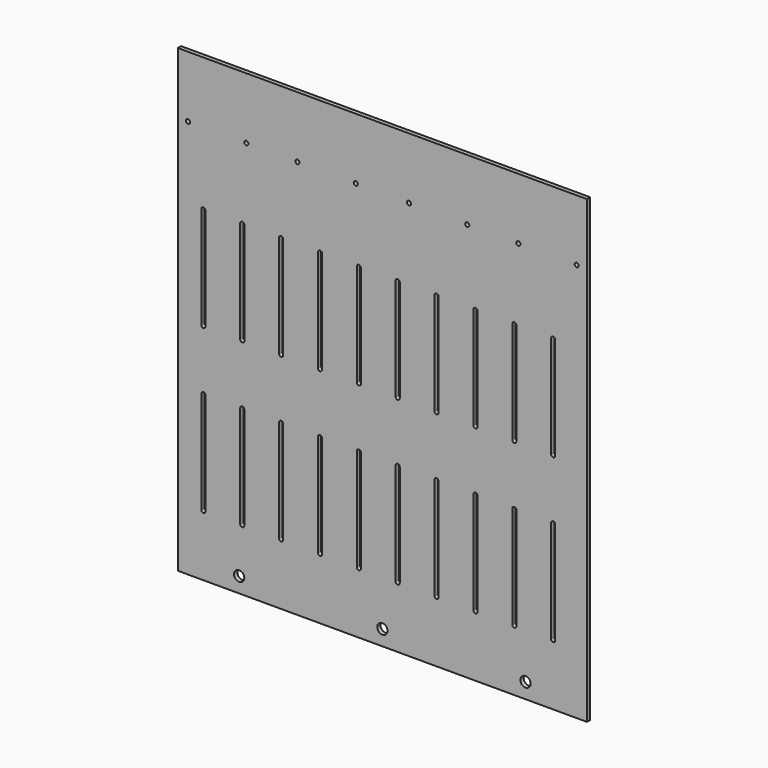
from build123d import *

# Parameters (mm, degrees)
F0_W     = 400
F0_H     = 450
F0_R     = 2
F1_DEPTH = 4
F2_R     = 5
F3_DEPTH = 25
F5_DEPTH = 25


with BuildPart() as f1:
    # F0 (on Front) → F1 (new body)
    with BuildSketch(Plane.XZ):
        Rectangle(F0_W, F0_H)
        with Locations((-190, 165)):
            Circle(F0_R, mode=Mode.SUBTRACT)
        with Locations((-133, 165)):
            Circle(F0_R, mode=Mode.SUBTRACT)
        with Locations((-83, 165)):
            Circle(F0_R, mode=Mode.SUBTRACT)
        with Locations((-26, 165)):
            Circle(F0_R, mode=Mode.SUBTRACT)
        with Locations((26, 165)):
            Circle(F0_R, mode=Mode.SUBTRACT)
        with Locations((83, 165)):
            Circle(F0_R, mode=Mode.SUBTRACT)
        with Locations((133, 165)):
            Circle(F0_R, mode=Mode.SUBTRACT)
        with Locations((190, 165)):
            Circle(F0_R, mode=Mode.SUBTRACT)
    extrude(amount=F1_DEPTH)

    # F2 (on face) → F3 (cut)
    with BuildSketch(Plane(origin=(0, 0, 0), x_dir=(-1, 0, 0), z_dir=(0, 1, 0))):
        with Locations((0, -210)):
            Circle(F2_R)
        with Locations((140, -210)):
            Circle(F2_R)
        with Locations((-140, -210)):
            Circle(F2_R)
    extrude(amount=-F3_DEPTH, mode=Mode.SUBTRACT)

    # F4 (on face) → F5 (cut)
    with BuildSketch(Plane(origin=(0, 0, 0), x_dir=(-1, 0, 0), z_dir=(0, 1, 0))):
        with BuildLine():
            ThreePointArc((173, -165), (175, -167), (177, -165))
            Line((177, -165), (177, -65))
            ThreePointArc((177, -65), (175, -63), (173, -65))
            Line((173, -65), (173, -165))
        make_face()
        with BuildLine():
            Line((173, 94), (173, -6))
            ThreePointArc((173, -6), (175, -8), (177, -6))
            Line((177, -6), (177, 94))
            ThreePointArc((177, 94), (175, 96), (173, 94))
        make_face()
        with BuildLine():
            Line((135, -65), (135, -165))
            ThreePointArc((135, -165), (137, -167), (139, -165))
            Line((139, -165), (139, -65))
            ThreePointArc((139, -65), (137, -63), (135, -65))
        make_face()
        with BuildLine():
            Line((135, 94), (135, -6))
            ThreePointArc((135, -6), (137, -8), (139, -6))
            Line((139, -6), (139, 94))
            ThreePointArc((139, 94), (137, 96), (135, 94))
        make_face()
        with BuildLine():
            Line((97, -65), (97, -165))
            ThreePointArc((97, -165), (99, -167), (101, -165))
            Line((101, -165), (101, -65))
            ThreePointArc((101, -65), (99, -63), (97, -65))
        make_face()
        with BuildLine():
            Line((97, 94), (97, -6))
            ThreePointArc((97, -6), (99, -8), (101, -6))
            Line((101, -6), (101, 94))
            ThreePointArc((101, 94), (99, 96), (97, 94))
        make_face()
        with BuildLine():
            Line((59, -65), (59, -165))
            ThreePointArc((59, -165), (61, -167), (63, -165))
            Line((63, -165), (63, -65))
            ThreePointArc((63, -65), (61, -63), (59, -65))
        make_face()
        with BuildLine():
            Line((59, 94), (59, -6))
            ThreePointArc((59, -6), (61, -8), (63, -6))
            Line((63, -6), (63, 94))
            ThreePointArc((63, 94), (61, 96), (59, 94))
        make_face()
        with BuildLine():
            Line((21, -65), (21, -165))
            ThreePointArc((21, -165), (23, -167), (25, -165))
            Line((25, -165), (25, -65))
            ThreePointArc((25, -65), (23, -63), (21, -65))
        make_face()
        with BuildLine():
            Line((21, 94), (21, -6))
            ThreePointArc((21, -6), (23, -8), (25, -6))
            Line((25, -6), (25, 94))
            ThreePointArc((25, 94), (23, 96), (21, 94))
        make_face()
        with BuildLine():
            Line((-17, -65), (-17, -165))
            ThreePointArc((-17, -165), (-15, -167), (-13, -165))
            Line((-13, -165), (-13, -65))
            ThreePointArc((-13, -65), (-15, -63), (-17, -65))
        make_face()
        with BuildLine():
            Line((-17, 94), (-17, -6))
            ThreePointArc((-17, -6), (-15, -8), (-13, -6))
            Line((-13, -6), (-13, 94))
            ThreePointArc((-13, 94), (-15, 96), (-17, 94))
        make_face()
        with BuildLine():
            Line((-55, -65), (-55, -165))
            ThreePointArc((-55, -165), (-53, -167), (-51, -165))
            Line((-51, -165), (-51, -65))
            ThreePointArc((-51, -65), (-53, -63), (-55, -65))
        make_face()
        with BuildLine():
            Line((-55, 94), (-55, -6))
            ThreePointArc((-55, -6), (-53, -8), (-51, -6))
            Line((-51, -6), (-51, 94))
            ThreePointArc((-51, 94), (-53, 96), (-55, 94))
        make_face()
        with BuildLine():
            Line((-93, -65), (-93, -165))
            ThreePointArc((-93, -165), (-91, -167), (-89, -165))
            Line((-89, -165), (-89, -65))
            ThreePointArc((-89, -65), (-91, -63), (-93, -65))
        make_face()
        with BuildLine():
            Line((-93, 94), (-93, -6))
            ThreePointArc((-93, -6), (-91, -8), (-89, -6))
            Line((-89, -6), (-89, 94))
            ThreePointArc((-89, 94), (-91, 96), (-93, 94))
        make_face()
        with BuildLine():
            Line((-131, -65), (-131, -165))
            ThreePointArc((-131, -165), (-129, -167), (-127, -165))
            Line((-127, -165), (-127, -65))
            ThreePointArc((-127, -65), (-129, -63), (-131, -65))
        make_face()
        with BuildLine():
            Line((-131, 94), (-131, -6))
            ThreePointArc((-131, -6), (-129, -8), (-127, -6))
            Line((-127, -6), (-127, 94))
            ThreePointArc((-127, 94), (-129, 96), (-131, 94))
        make_face()
        with BuildLine():
            Line((-169, -65), (-169, -165))
            ThreePointArc((-169, -165), (-167, -167), (-165, -165))
            Line((-165, -165), (-165, -65))
            ThreePointArc((-165, -65), (-167, -63), (-169, -65))
        make_face()
        with BuildLine():
            Line((-169, 94), (-169, -6))
            ThreePointArc((-169, -6), (-167, -8), (-165, -6))
            Line((-165, -6), (-165, 94))
            ThreePointArc((-165, 94), (-167, 96), (-169, 94))
        make_face()
    extrude(amount=-F5_DEPTH, mode=Mode.SUBTRACT)


solid = f1.part
